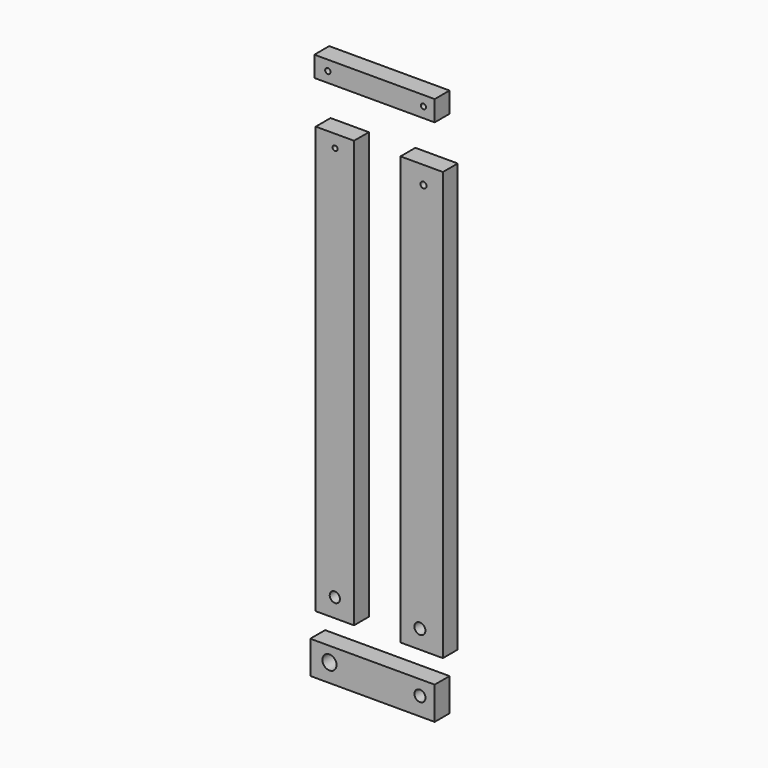
from build123d import *

# Parameters (mm, degrees)
F0_W     = 6.185133
F0_H     = 68.920059
F0_R     = 0.827807
F0_R_2   = 0.403225
F0_W_2   = 6.847828
F0_H_2   = 69.140957
F0_R_3   = 0.889271
F0_R_4   = 0.491476
F0_W_3   = 19.43899
F0_H_3   = 3.313467
F0_R_5   = 0.431792
F0_R_6   = 0.405385
F0_W_4   = 20.101681
F0_H_4   = 5.301542
F0_R_7   = 1.144058
F0_R_8   = 0.891496
F1_DEPTH = 3


with BuildPart() as f1:
    # F0 (on Front) → F1 (new body)
    with BuildSketch(Plane.XZ):
        with Locations((-59.366236, 7.2344)):
            Rectangle(F0_W, F0_H)
        with Locations((-59.370622, -24.230942)):
            Circle(F0_R, mode=Mode.SUBTRACT)
        with Locations((-59.329659, 39.633237)):
            Circle(F0_R_2, mode=Mode.SUBTRACT)
        with Locations((-45.339238, 7.344848)):
            Rectangle(F0_W_2, F0_H_2)
        with Locations((-45.623481, -24.230942)):
            Circle(F0_R_3, mode=Mode.SUBTRACT)
        with Locations((-45.056317, 39.044645)):
            Circle(F0_R_4, mode=Mode.SUBTRACT)
        with Locations((-52.960206, 50.198988)):
            Rectangle(F0_W_3, F0_H_3)
        with Locations((-60.506843, 50.227884)):
            Circle(F0_R_5, mode=Mode.SUBTRACT)
        with Locations((-45.056317, 50.227884)):
            Circle(F0_R_6, mode=Mode.SUBTRACT)
        with Locations((-53.291551, -34.073457)):
            Rectangle(F0_W_4, F0_H_4)
        with Locations((-60.239695, -33.790737)):
            Circle(F0_R_7, mode=Mode.SUBTRACT)
        with Locations((-45.623481, -33.790737)):
            Circle(F0_R_8, mode=Mode.SUBTRACT)
    extrude(amount=F1_DEPTH)


solid = f1.part
